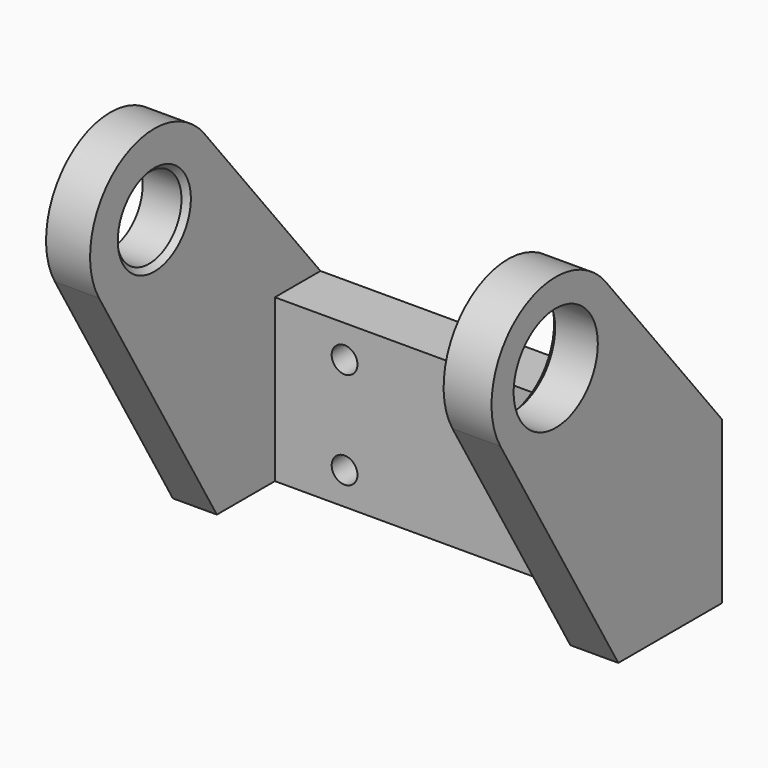
from build123d import *

# Parameters (mm, degrees)
F0_W     = 43.688
F0_H     = 15.875
F1_DEPTH = 5.588
F2_R     = 5.15874
F3_DEPTH = 4.699
F4_R     = 3.96875
F4_W     = 5.588
F4_H     = 15.875
F5_DEPTH = 4.318
F7_D     = 2.5273
F8_SIZE  = 0.508


with BuildPart() as f1:
    # F0 (on Front) → F1 (new body)
    with BuildSketch(Plane.XZ):
        with Locations((21.844, 7.9375)):
            Rectangle(F0_W, F0_H)
    extrude(amount=F1_DEPTH)

    # F2 (on face) → F3 (join)
    with BuildSketch(Plane.YZ.offset(43.688)):
        with BuildLine():
            Line((-12.7, 0), (-5.588, 0))
            Line((-5.588, 0), (-5.588, 15.875))
            Line((-5.588, 15.875), (0, 15.875))
            Line((0, 15.875), (-14.2438521908, 33.520744286))
            ThreePointArc((-14.2438521908, 33.520744286), (-24.8517052521, 35.0496709663), (-27.1580024701, 24.5832887591))
            Line((-27.1580024701, 24.5832887591), (-12.7, 0))
        make_face()
        with Locations((-20.3708, 28.575)):
            Circle(F2_R, mode=Mode.SUBTRACT)
    extrude(amount=-F3_DEPTH)

    # F4 (on face) → F5 (join)
    with BuildSketch(Plane(origin=(0, 0, 0), x_dir=(0, -1, 0), z_dir=(-1, 0, 0))):
        with BuildLine():
            Line((14.2438521908, 33.520744286), (0, 15.875))
            Line((0, 15.875), (5.588, 15.875))
            Line((5.588, 15.875), (5.588, 0))
            Line((5.588, 0), (12.7, 0))
            Line((12.7, 0), (27.1580024701, 24.5832887591))
            ThreePointArc((27.1580024701, 24.5832887591), (24.8517052521, 35.0496709663), (14.2438521908, 33.520744286))
        make_face()
        with Locations((20.3708, 28.575)):
            Circle(F4_R, mode=Mode.SUBTRACT)
        with Locations((2.794, 7.9375)):
            Rectangle(F4_W, F4_H)
    extrude(amount=-F5_DEPTH)

    # F7 (through all)
    with Locations(Plane.XZ.offset(5.588)):
        with Locations((11.1506, 12.7), (30.2006, 12.7), (30.2006, 3.175), (11.1506, 3.175)):
            Hole(F7_D / 2)

    # F8
    f8_edges = [f1.edges().sort_by_distance(p)[0] for p in [
        (4.318, -16.40205, 28.575),
        (38.989, -25.52954, 28.575),
    ]]
    chamfer(f8_edges, length=F8_SIZE)


solid = f1.part
